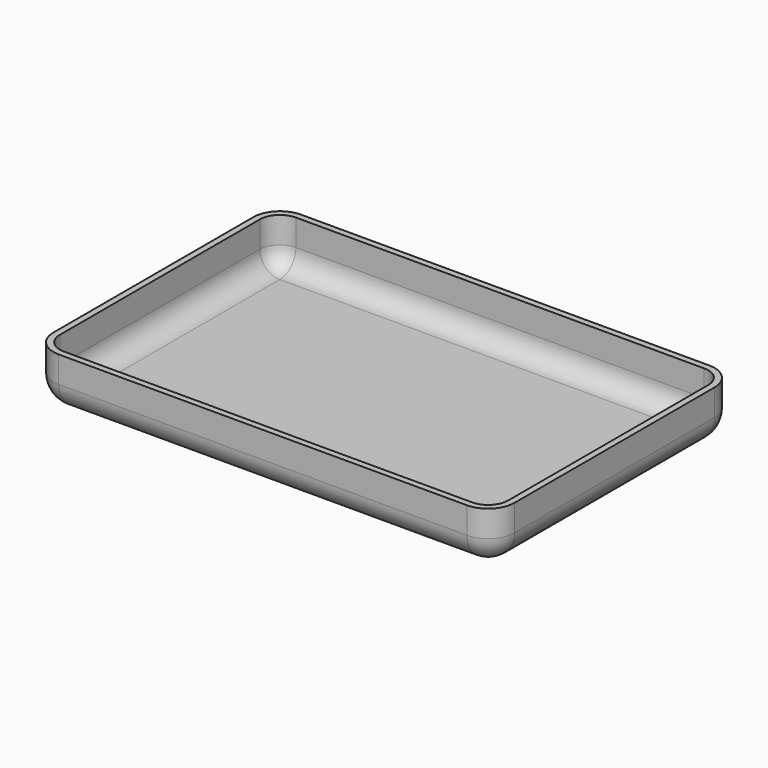
from build123d import *

# Parameters (mm, degrees)
F0_W     = 87.4
F0_H     = 57.4
F1_DEPTH = 10
F2_R     = 5
F3_T     = -1.2


with BuildPart() as f1:
    # F0 (on Top) → F1 (new body)
    with BuildSketch(Plane.XY):
        Rectangle(F0_W, F0_H)
    extrude(amount=F1_DEPTH)

    # F2
    f2_edges = [f1.edges().sort_by_distance(p)[0] for p in [
        (43.7, -28.7, 5),
        (43.7, 28.7, 5),
        (-43.7, 28.7, 5),
        (-43.7, -28.7, 5),
        (-43.7, 0, 0),
        (0, 28.7, 0),
        (0, -28.7, 0),
        (43.7, 0, 0),
    ]]
    fillet(f2_edges, radius=F2_R)

    # F3
    f3_openings = [f1.faces().sort_by_distance(p)[0] for p in [
        (0, 0, 10),
    ]]
    offset(amount=F3_T, openings=f3_openings)


solid = f1.part
